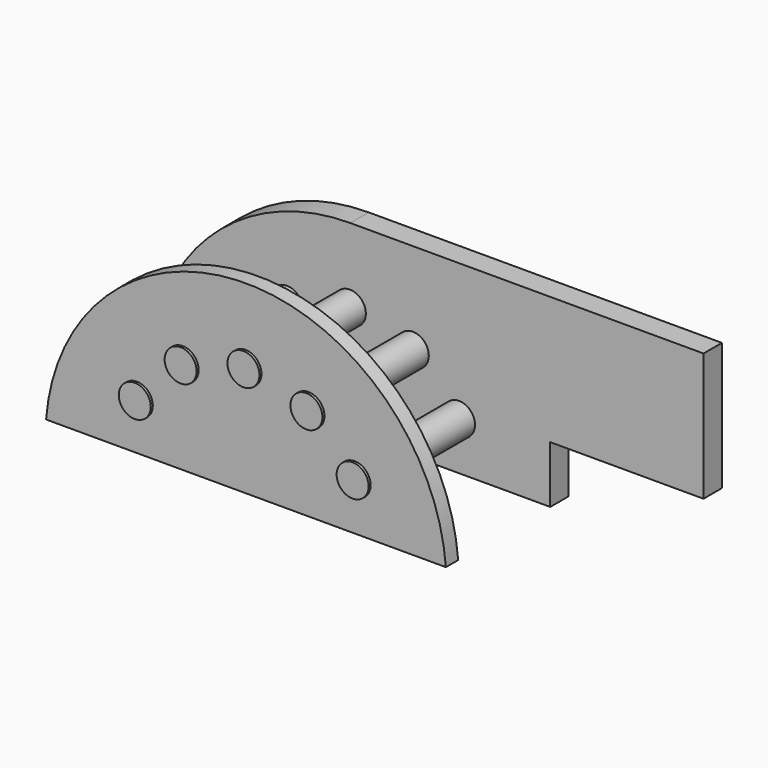
from build123d import *

# Parameters (mm, degrees)
F0_R          = 12.5
F1_DEPTH      = 18
F3_R          = 12.5
F4_DEPTH      = 12
F5_R          = 12.5
F6_DEPTH      = 122
F6_DEPTH_BACK = 2


with BuildPart() as f1:
    # F0 (on Front) → F1 (new body)
    with BuildSketch(Plane.XZ):
        with BuildLine():
            Line((-26.0921634734, -100), (-26.0921634734, 0))
            Line((-26.0921634734, 0), (-302.2132738139, 0))
            ThreePointArc((-302.2132738139, 0), (-408.6771422638, -41.6946592259), (-458.5108448572, -144.6004509926))
            Line((-458.5108448572, -144.6004509926), (-145.9157027706, -144.6004509926))
            Line((-145.9157027706, -144.6004509926), (-145.9157027706, -100))
            Line((-145.9157027706, -100), (-26.0921634734, -100))
        make_face()
        with Locations((-387.568802112, -107.9307186779)):
            Circle(F0_R, mode=Mode.SUBTRACT)
        with Locations((-217.2388651936, -107.2706000321)):
            Circle(F0_R, mode=Mode.SUBTRACT)
        with Locations((-351.7133506022, -71.7962682002)):
            Circle(F0_R, mode=Mode.SUBTRACT)
        with Locations((-302.5943934917, -58.4306418896)):
            Circle(F0_R, mode=Mode.SUBTRACT)
        with Locations((-253.3733156713, -71.4151485223)):
            Circle(F0_R, mode=Mode.SUBTRACT)
    extrude(amount=F1_DEPTH)



with BuildPart() as f4:
    # F3 (on offset) → F4 (new body)
    with BuildSketch(Plane.XZ.offset(108)):
        with BuildLine():
            Line((-458.5108448572, -144.6004509926), (-145.9157027706, -144.6004509926))
            ThreePointArc((-145.9157027706, -144.6004509926), (-302.2132738139, 0), (-458.5108448572, -144.6004509926))
        make_face()
        with Locations((-387.568802112, -107.9307186779)):
            Circle(F3_R, mode=Mode.SUBTRACT)
        with Locations((-217.2388651936, -107.2706000321)):
            Circle(F3_R, mode=Mode.SUBTRACT)
        with Locations((-351.7133506022, -71.7962682002)):
            Circle(F3_R, mode=Mode.SUBTRACT)
        with Locations((-302.5943934917, -58.4306418896)):
            Circle(F3_R, mode=Mode.SUBTRACT)
        with Locations((-253.3733156713, -71.4151485223)):
            Circle(F3_R, mode=Mode.SUBTRACT)
    extrude(amount=F4_DEPTH)


with BuildPart() as f1_1:
    add(f1.part)

    add(f4.part)  # F6 merges F4
    # F5 (on face) → F6 (join, two sides)
    with BuildSketch(Plane.XZ.offset(120)) as f6_sk:
        with Locations((-387.568802112, -107.9307186779)):
            Circle(F5_R)
        with Locations((-351.7133506022, -71.7962682002)):
            Circle(F5_R)
        with Locations((-302.5943934917, -58.4306418896)):
            Circle(F5_R)
        with Locations((-253.3733156713, -71.4151485223)):
            Circle(F5_R)
        with Locations((-217.2388651936, -107.2706000321)):
            Circle(F5_R)
    extrude(amount=-F6_DEPTH)
    extrude(f6_sk.sketch, amount=F6_DEPTH_BACK)


solid = f1_1.part
